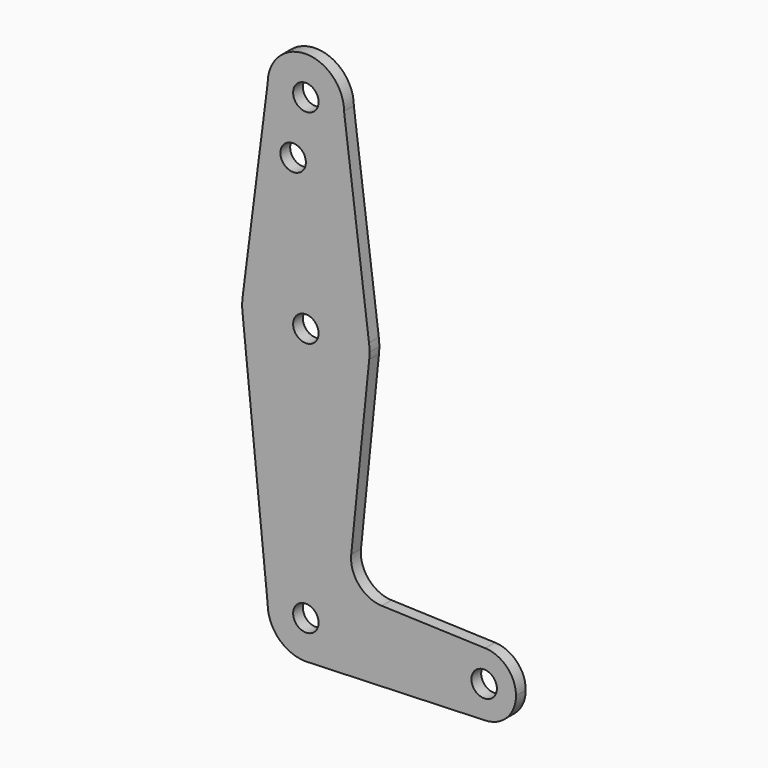
from build123d import *

# Parameters (mm, degrees)
F0_R     = 3.175
F1_DEPTH = 3.048


with BuildPart() as f1:
    # F0 (on Front) → F1 (new body)
    with BuildSketch(Plane.XZ):
        with BuildLine():
            ThreePointArc((-9.525, 114.3), (0, 104.775), (9.525, 114.3))
            ThreePointArc((9.525, 114.3), (0, 123.825), (-9.525, 114.3))
        make_face()
        with Locations((0, 114.3)):
            Circle(F0_R, mode=Mode.SUBTRACT)
        with BuildLine():
            Line((15.747457, 65.508289), (9.525, 114.3))
            ThreePointArc((9.525, 114.3), (0, 104.775), (-9.525, 114.3))
            Line((-9.525, 114.3), (-15.747457, 65.508289))
            ThreePointArc((-15.747457, 65.508289), (0, 79.375), (15.747457, 65.508289))
        make_face()
        with Locations((-3.175, 100.0252)):
            Circle(F0_R, mode=Mode.SUBTRACT)
        with BuildLine():
            ThreePointArc((15.875, 63.5), (15.843082, 64.506168), (15.747457, 65.508289))
            ThreePointArc((15.747457, 65.508289), (0, 79.375), (-15.747457, 65.508289))
            ThreePointArc((-15.747457, 65.508289), (-15.875, 63.5), (-15.747457, 61.491711))
            ThreePointArc((-15.747457, 61.491711), (0.205667, 47.626332), (15.794203, 61.90038))
            ThreePointArc((15.794203, 61.90038), (15.854788, 62.699171), (15.875, 63.5))
        make_face()
        with Locations((0, 63.5)):
            Circle(F0_R, mode=Mode.SUBTRACT)
        with BuildLine():
            ThreePointArc((15.794203, 61.90038), (0.205667, 47.626332), (-15.747457, 61.491711))
            Line((-15.747457, 61.491711), (-9.525, 0))
            ThreePointArc((-9.525, 0), (0, 9.525), (9.525, 0))
            ThreePointArc((9.525, 0), (6.970557, -6.491299), (0.677344, -9.500886))
            Line((0.677344, -9.500886), (44.732405, -7.932475))
            ThreePointArc((44.732405, -7.932475), (36.5125, 0), (44.732405, 7.932475))
            Line((44.732405, 7.932475), (18.934103, 8.850924))
            ThreePointArc((18.934103, 8.850924), (13.224974, 11.57098), (11.307223, 17.59718))
            Line((11.307223, 17.59718), (15.794203, 61.90038))
        make_face()
        with BuildLine():
            ThreePointArc((9.525, 0), (0, 9.525), (-9.525, 0))
            ThreePointArc((-9.525, 0), (-6.735192, -6.735192), (0, -9.525))
            Line((0, -9.525), (0.677344, -9.500886))
            ThreePointArc((0.677344, -9.500886), (6.970557, -6.491299), (9.525, 0))
        make_face()
        Circle(F0_R, mode=Mode.SUBTRACT)
        with BuildLine():
            Line((0.677344, -9.500886), (0, -9.525))
            ThreePointArc((0, -9.525), (0.338886, -9.51897), (0.677344, -9.500886))
        make_face()
        with BuildLine():
            ThreePointArc((52.3875, 0), (50.161633, 5.51191), (44.732405, 7.932475))
            ThreePointArc((44.732405, 7.932475), (36.5125, 0), (44.732405, -7.932475))
            ThreePointArc((44.732405, -7.932475), (50.161633, -5.51191), (52.3875, 0))
        make_face()
        with Locations((44.45, 0)):
            Circle(F0_R, mode=Mode.SUBTRACT)
    extrude(amount=F1_DEPTH)


solid = f1.part
